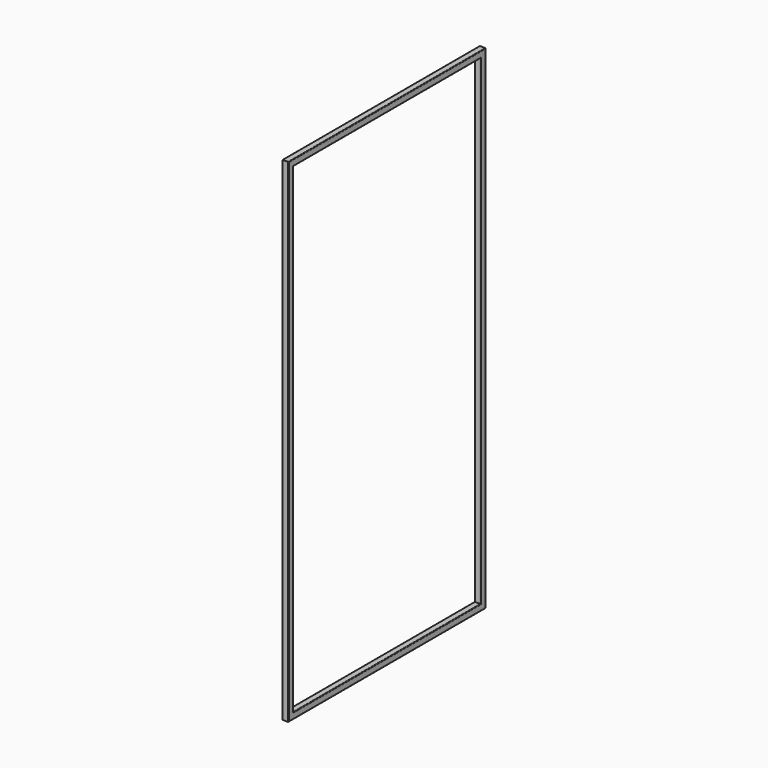
from build123d import *

# Parameters (mm, degrees)
F0_W     = 1000
F0_H     = 2000
F0_W_2   = 949.2
F0_H_2   = 1949.2
F1_DEPTH = 25.4
F2_R     = 2.5


with BuildPart() as f1:
    # F0 (on Right) → F1 (new body)
    with BuildSketch(Plane.YZ):
        Rectangle(F0_W, F0_H)
        Rectangle(F0_W_2, F0_H_2, mode=Mode.SUBTRACT)
    extrude(amount=F1_DEPTH)

    # F2
    f2_edges = [f1.edges().sort_by_distance(p)[0] for p in [
        (25.4, 0, 1000),
        (25.4, 0, 974.6),
        (0, 0, 1000),
        (0, 0, 974.6),
        (0, -500, 0),
        (25.4, -500, 0),
        (0, -474.6, 0),
        (25.4, -474.6, 0),
        (25.4, 500, 0),
        (0, 500, 0),
        (25.4, 474.6, 0),
        (25.4, 0, -974.6),
        (25.4, 0, -1000),
        (0, 0, -1000),
        (0, 474.6, 0),
        (0, 0, -974.6),
    ]]
    fillet(f2_edges, radius=F2_R)


solid = f1.part
